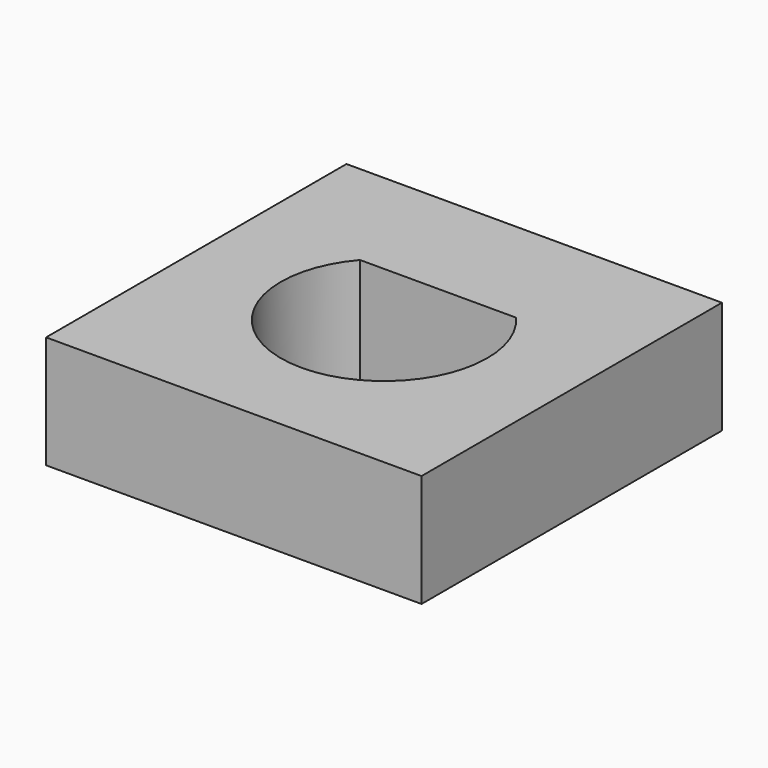
from build123d import *

# Parameters (mm, degrees)
F0_W     = 10
F0_H     = 10
F1_DEPTH = 3


with BuildPart() as f1:
    # F0 (on Top) → F1 (new body)
    with BuildSketch(Plane.XY):
        Rectangle(F0_W, F0_H)
        with BuildLine():
            ThreePointArc((2.079062, 1.8), (0, -2.75), (-2.079062, 1.8))
            Line((-2.079062, 1.8), (2.079062, 1.8))
        make_face(mode=Mode.SUBTRACT)
    extrude(amount=F1_DEPTH)


solid = f1.part
